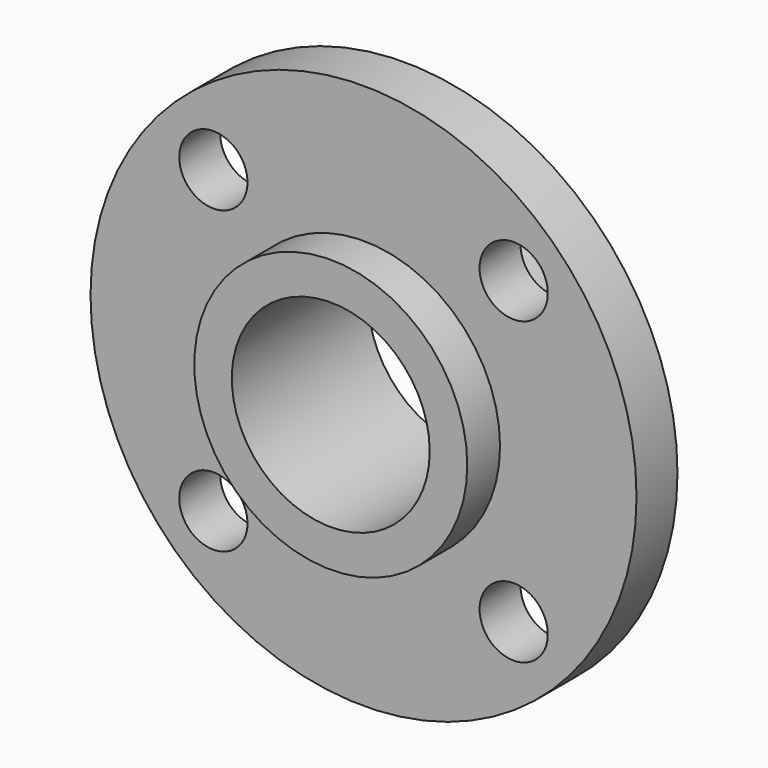
from build123d import *

# Parameters (mm, degrees)
F0_R     = 8
F1_DEPTH = 1.5
F3_D     = 2
F4_R     = 4
F5_DEPTH = 1.2
F6_R     = 4
F7_DEPTH = 2.3
F9_D     = 5.8


with BuildPart() as f1:
    # F0 (on Front) → F1 (new body)
    with BuildSketch(Plane.XZ):
        Circle(F0_R)
    extrude(amount=F1_DEPTH)

    # F3 (through all)
    with Locations(Plane.XZ.offset(1.5)):
        with Locations((-4.4, 4.4), (4.4, 4.4), (4.4, -4.4), (-4.4, -4.4)):
            Hole(F3_D / 2)

    # F4 (on face) → F5 (join)
    with BuildSketch(Plane.XZ.offset(1.5)):
        Circle(F4_R)
    extrude(amount=F5_DEPTH)

    # F6 (on face) → F7 (join)
    with BuildSketch(Plane(origin=(0, 0, 0), x_dir=(-1, 0, 0), z_dir=(0, 1, 0))):
        Circle(F6_R)
    extrude(amount=F7_DEPTH)

    # F9 (through all)
    with Locations(Plane(origin=(0, 2.3, 0), x_dir=(-1, 0, 0), z_dir=(0, 1, 0))):
        with Locations((0, 0)):
            Hole(F9_D / 2)


solid = f1.part
